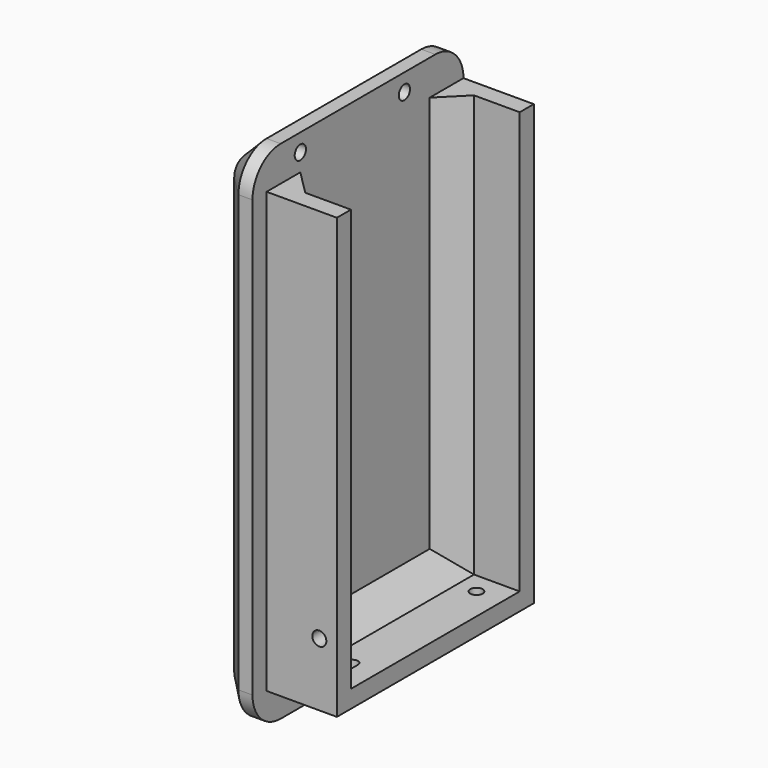
from build123d import *

# Parameters (mm, degrees)
SKETCH165_W     = 75
SKETCH165_H     = 144
PAD045_DEPTH    = 10
FILLET025_R     = 10
CHAMFER010_SIZE = 6
SKETCH166_R     = 2
POCKET056_DEPTH = 6
PAD046_DEPTH    = 20
SKETCH169_R     = 1.75
POCKET057_DEPTH = 5
CHAMFER011_SIZE = 7
SKETCH172_R     = 2
POCKET059_DEPTH = 5


with BuildPart() as part:
    # Sketch165 → Pad045 (new body)
    with BuildSketch(Plane.YZ):
        with Locations((5.5, 0)):
            Rectangle(SKETCH165_W, SKETCH165_H)
    extrude(amount=PAD045_DEPTH)

    # Fillet025
    fillet025_edges = [part.edges().sort_by_distance(p)[0] for p in [
        (5, 43, -72),
        (5, -32, -72),
        (5, -32, 72),
        (5, 43, 72),
    ]]
    fillet(fillet025_edges, radius=FILLET025_R)

    # Chamfer010
    chamfer010_edges = [part.edges().sort_by_distance(p)[0] for p in [
        (0, 5.5, 72),
        (0, -32, 0),
        (0, 43, 0),
        (0, 5.5, -72),
    ]]
    chamfer(chamfer010_edges, length=CHAMFER010_SIZE)

    # Sketch166 (on Face4 of Chamfer010) → Pocket056 (cut)
    with BuildSketch(Plane.YZ.offset(10)):
        with Locations((-15, 67)):
            Circle(SKETCH166_R)
        with Locations((22, 67)):
            Circle(SKETCH166_R)
    extrude(amount=-POCKET056_DEPTH, mode=Mode.SUBTRACT)

    # Sketch167 (on Face4 of Pocket056) → Pad046 (join)
    with BuildSketch(Plane.YZ.offset(10)):
        Polygon((-27, 62), (-27, -63), (43, -63), (43, 62), (38, 62), (38, -58), (-22, -58), (-22, 62), align=None)
    extrude(amount=PAD046_DEPTH)

    # Sketch169 (on Face13 of Pad046) → Pocket057 (cut)
    with BuildSketch(Plane(origin=(0, 0, -58), x_dir=(0, -1, 0), z_dir=(0, 0, 1))):
        with Locations((-32, 22.5)):
            Circle(SKETCH169_R)
        with BuildLine():
            ThreePointArc((12, 24), (10.5, 22.5), (12, 21))
            Line((12, 21), (19, 21))
            ThreePointArc((19, 21), (20.5, 22.5), (19, 24))
            Line((12, 24), (19, 24))
        make_face()
    extrude(amount=-POCKET057_DEPTH, mode=Mode.SUBTRACT)

    # Chamfer011
    chamfer011_edges = [part.edges().sort_by_distance(p)[0] for p in [
        (10, 8, -58),
        (10, -22, 2),
        (10, 38, 2),
    ]]
    chamfer(chamfer011_edges, length=CHAMFER011_SIZE)

    # Sketch172 (on Face18 of Chamfer011) → Pocket059 (cut)
    with BuildSketch(Plane.ZX.offset(-22)):
        with Locations((-45, 25)):
            Circle(SKETCH172_R)
    extrude(amount=-POCKET059_DEPTH, mode=Mode.SUBTRACT)


with BuildPart() as part_1:
    # Body016 placement: moved
    add(part.part.moved(Location((-217.9, -150.9, 0))))


solid = part_1.part
